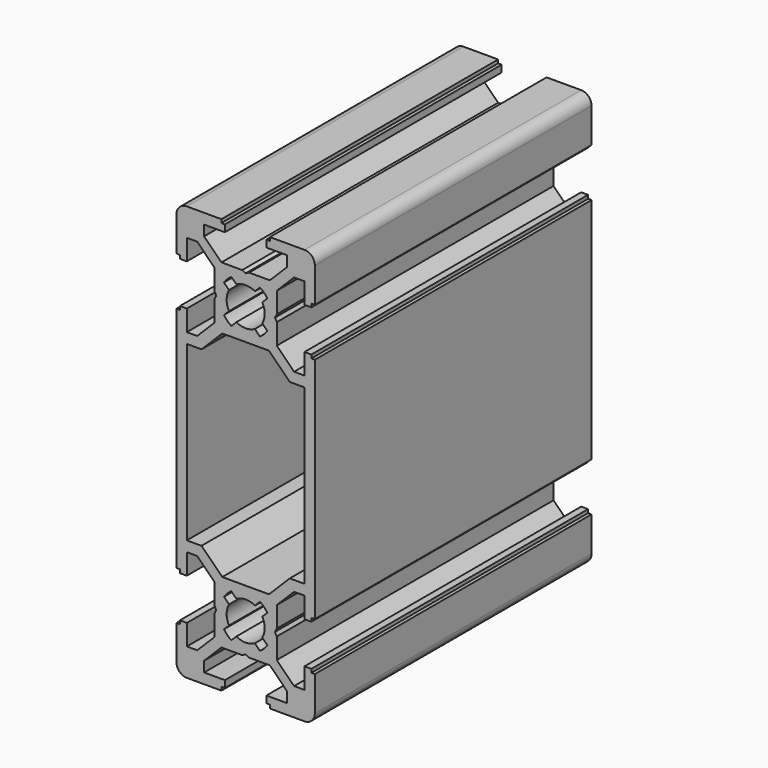
from build123d import *

# Parameters (mm, degrees)
F1_DEPTH = 50


with BuildPart() as f1:
    # F0 (on Front) → F1 (new body)
    with BuildSketch(Plane.XZ):
        with BuildLine():
            ThreePointArc((0, 1.5), (0.43934, 0.43934), (1.5, 0))
            Line((1.5, 0), (6.5, 0))
            Line((6.5, 0), (6.5, 0.5))
            Line((6.5, 0.5), (7, 0.5))
            Line((7, 0.5), (7, 1.5))
            Line((7, 1.5), (4, 1.5))
            Line((4, 1.5), (4, 3))
            Line((4, 3), (6.5, 5.5))
            Line((6.5, 5.5), (9.5, 5.5))
            Line((9.5, 5.5), (10, 5.75))
            Line((10, 5.75), (10.5, 5.5))
            Line((10.5, 5.5), (13.5, 5.5))
            Line((13.5, 5.5), (16, 3))
            Line((16, 3), (16, 1.5))
            Line((16, 1.5), (13, 1.5))
            Line((13, 1.5), (13, 0.5))
            Line((13, 0.5), (13.5, 0.5))
            Line((13.5, 0.5), (13.5, 0))
            Line((13.5, 0), (18.5, 0))
            ThreePointArc((18.5, 0), (19.56066, 0.43934), (20, 1.5))
            Line((20, 1.5), (20, 6.5))
            Line((20, 6.5), (19.5, 6.5))
            Line((19.5, 6.5), (19.5, 7))
            Line((19.5, 7), (18.5, 7))
            Line((18.5, 7), (18.5, 4))
            Line((18.5, 4), (17, 4))
            Line((17, 4), (14.5, 6.5))
            Line((14.5, 6.5), (14.5, 9.5))
            Line((14.5, 9.5), (14.25, 10))
            Line((14.25, 10), (14.5, 10.5))
            Line((14.5, 10.5), (14.5, 13.5))
            Line((14.5, 13.5), (17, 16))
            Line((17, 16), (18.5, 16))
            Line((18.5, 16), (18.5, 13))
            Line((18.5, 13), (19.5, 13))
            Line((19.5, 13), (19.5, 13.5))
            Line((19.5, 13.5), (20, 13.5))
            Line((20, 13.5), (20, 46.5))
            Line((20, 46.5), (19.5, 46.5))
            Line((19.5, 46.5), (19.5, 47))
            Line((19.5, 47), (18.5, 47))
            Line((18.5, 47), (18.5, 44))
            Line((18.5, 44), (17, 44))
            Line((17, 44), (14.5, 46.5))
            Line((14.5, 46.5), (14.5, 49.5))
            Line((14.5, 49.5), (14.25, 50))
            Line((14.25, 50), (14.5, 50.5))
            Line((14.5, 50.5), (14.5, 53.5))
            Line((14.5, 53.5), (17, 56))
            Line((17, 56), (18.5, 56))
            Line((18.5, 56), (18.5, 53))
            Line((18.5, 53), (19.5, 53))
            Line((19.5, 53), (19.5, 53.5))
            Line((19.5, 53.5), (20, 53.5))
            Line((20, 53.5), (20, 58.5))
            ThreePointArc((20, 58.5), (19.56066, 59.56066), (18.5, 60))
            Line((18.5, 60), (13.5, 60))
            Line((13.5, 60), (13.5, 59.5))
            Line((13.5, 59.5), (13, 59.5))
            Line((13, 59.5), (13, 58.5))
            Line((13, 58.5), (16, 58.5))
            Line((16, 58.5), (16, 57))
            Line((16, 57), (13.5, 54.5))
            Line((13.5, 54.5), (10.5, 54.5))
            Line((10.5, 54.5), (10, 54.25))
            Line((10, 54.25), (9.5, 54.5))
            Line((9.5, 54.5), (6.5, 54.5))
            Line((6.5, 54.5), (4, 57))
            Line((4, 57), (4, 58.5))
            Line((4, 58.5), (7, 58.5))
            Line((7, 58.5), (7, 59.5))
            Line((7, 59.5), (6.5, 59.5))
            Line((6.5, 59.5), (6.5, 60))
            Line((6.5, 60), (1.5, 60))
            ThreePointArc((1.5, 60), (0.43934, 59.56066), (0, 58.5))
            Line((0, 58.5), (0, 53.5))
            Line((0, 53.5), (0.5, 53.5))
            Line((0.5, 53.5), (0.5, 53))
            Line((0.5, 53), (1.5, 53))
            Line((1.5, 53), (1.5, 56))
            Line((1.5, 56), (3, 56))
            Line((3, 56), (5.5, 53.5))
            Line((5.5, 53.5), (5.5, 50.5))
            Line((5.5, 50.5), (5.75, 50))
            Line((5.75, 50), (5.5, 49.5))
            Line((5.5, 49.5), (5.5, 46.5))
            Line((5.5, 46.5), (3, 44))
            Line((3, 44), (1.5, 44))
            Line((1.5, 44), (1.5, 47))
            Line((1.5, 47), (0.5, 47))
            Line((0.5, 47), (0.5, 46.5))
            Line((0.5, 46.5), (0, 46.5))
            Line((0, 46.5), (0, 13.5))
            Line((0, 13.5), (0.5, 13.5))
            Line((0.5, 13.5), (0.5, 13))
            Line((0.5, 13), (1.5, 13))
            Line((1.5, 13), (1.5, 16))
            Line((1.5, 16), (3, 16))
            Line((3, 16), (5.5, 13.5))
            Line((5.5, 13.5), (5.5, 10.5))
            Line((5.5, 10.5), (5.75, 10))
            Line((5.75, 10), (5.5, 9.5))
            Line((5.5, 9.5), (5.5, 6.5))
            Line((5.5, 6.5), (3, 4))
            Line((3, 4), (1.5, 4))
            Line((1.5, 4), (1.5, 7))
            Line((1.5, 7), (0.5, 7))
            Line((0.5, 7), (0.5, 6.5))
            Line((0.5, 6.5), (0, 6.5))
            Line((0, 6.5), (0, 1.5))
        make_face()
        with BuildLine():
            Line((8.659501, 7.598841), (7.932254, 6.871594))
            ThreePointArc((7.932254, 6.871594), (7.34835, 7.34835), (6.871594, 7.932254))
            Line((6.871594, 7.932254), (7.598841, 8.659501))
            ThreePointArc((7.598841, 8.659501), (7.25, 10), (7.598841, 11.340499))
            Line((7.598841, 11.340499), (6.871594, 12.067746))
            ThreePointArc((6.871594, 12.067746), (7.34835, 12.65165), (7.932254, 13.128406))
            Line((7.932254, 13.128406), (8.659501, 12.401159))
            ThreePointArc((8.659501, 12.401159), (10, 12.75), (11.340499, 12.401159))
            Line((11.340499, 12.401159), (12.067746, 13.128406))
            ThreePointArc((12.067746, 13.128406), (12.65165, 12.65165), (13.128406, 12.067746))
            Line((13.128406, 12.067746), (12.401159, 11.340499))
            ThreePointArc((12.401159, 11.340499), (12.75, 10), (12.401159, 8.659501))
            Line((12.401159, 8.659501), (13.128406, 7.932254))
            ThreePointArc((13.128406, 7.932254), (12.65165, 7.34835), (12.067746, 6.871594))
            Line((12.067746, 6.871594), (11.340499, 7.598841))
            ThreePointArc((11.340499, 7.598841), (10, 7.25), (8.659501, 7.598841))
        make_face(mode=Mode.SUBTRACT)
        Polygon((1.5, 42.5), (3.62132, 42.5), (6.62132, 45.5), (10, 45.5), (13.37868, 45.5), (16.37868, 42.5), (18.5, 42.5), (18.5, 30), (18.5, 17.5), (16.37868, 17.5), (13.37868, 14.5), (10, 14.5), (6.62132, 14.5), (3.62132, 17.5), (1.5, 17.5), (1.5, 30), align=None, mode=Mode.SUBTRACT)
        with BuildLine():
            ThreePointArc((8.659501, 52.401159), (10, 52.75), (11.340499, 52.401159))
            Line((11.340499, 52.401159), (12.067746, 53.128406))
            ThreePointArc((12.067746, 53.128406), (12.65165, 52.65165), (13.128406, 52.067746))
            Line((13.128406, 52.067746), (12.401159, 51.340499))
            ThreePointArc((12.401159, 51.340499), (12.75, 50), (12.401159, 48.659501))
            Line((12.401159, 48.659501), (13.128406, 47.932254))
            ThreePointArc((13.128406, 47.932254), (12.65165, 47.34835), (12.067746, 46.871594))
            Line((12.067746, 46.871594), (11.340499, 47.598841))
            ThreePointArc((11.340499, 47.598841), (10, 47.25), (8.659501, 47.598841))
            Line((8.659501, 47.598841), (7.932254, 46.871594))
            ThreePointArc((7.932254, 46.871594), (7.34835, 47.34835), (6.871594, 47.932254))
            Line((6.871594, 47.932254), (7.598841, 48.659501))
            ThreePointArc((7.598841, 48.659501), (7.25, 50), (7.598841, 51.340499))
            Line((7.598841, 51.340499), (6.871594, 52.067746))
            ThreePointArc((6.871594, 52.067746), (7.34835, 52.65165), (7.932254, 53.128406))
            Line((7.932254, 53.128406), (8.659501, 52.401159))
        make_face(mode=Mode.SUBTRACT)
    extrude(amount=F1_DEPTH)


solid = f1.part
